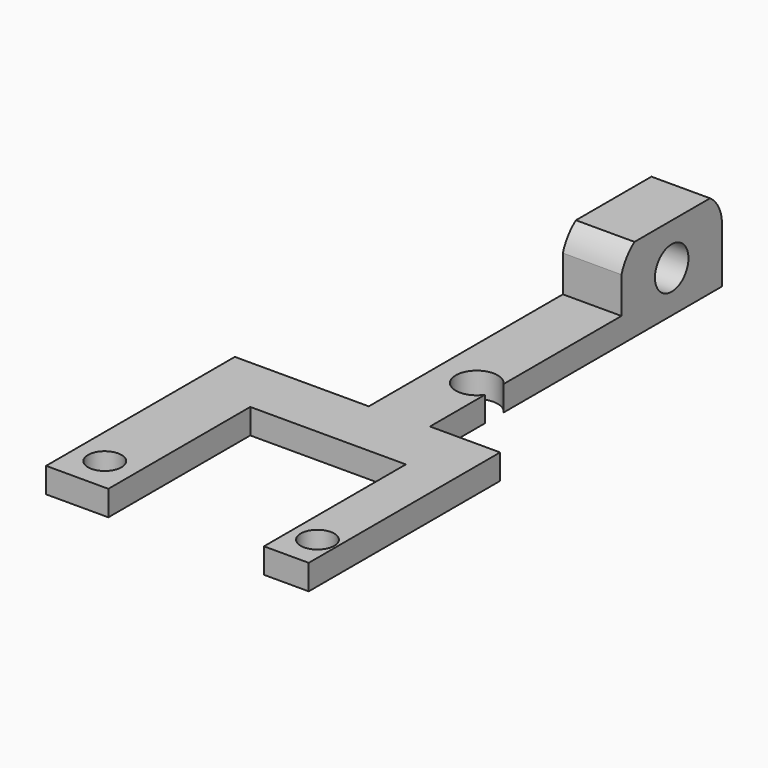
from build123d import *

# Parameters (mm, degrees)
F1_R     = 2
F2_DEPTH = 3
F3_W     = 7
F3_H     = 15
F4_DEPTH = 7
F5_R     = 2.5
F6_DEPTH = 7
F8_DEPTH = 25


with BuildPart() as f2:
    # F1 (on Top) → F2 (new body)
    with BuildSketch(Plane.XY):
        with BuildLine():
            Line((5.260746949, 48.1550168068), (-1.739253051, 48.1550168068))
            Line((-1.739253051, 48.1550168068), (-1.739253051, 4.1768743183))
            Line((-1.739253051, 4.1768743183), (-17.739253051, 4.1768743183))
            Line((-17.739253051, 4.1768743183), (-17.739253051, -24.0102637737))
            Line((-17.739253051, -24.0102637737), (-10.2988117629, -24.0102637737))
            Line((-10.2988117629, -24.0102637737), (-10.2988117629, -2.8231256817))
            Line((-10.2988117629, -2.8231256817), (8.2878154448, -2.8231256817))
            Line((8.2878154448, -2.8231256817), (8.2878154448, -24.0102637737))
            Line((8.2878154448, -24.0102637737), (13.6364829472, -24.0102637737))
            Line((13.6364829472, -24.0102637737), (13.6364829472, 4.5625712545))
            Line((13.6364829472, 4.5625712545), (5.260746949, 4.5625712545))
            Line((5.260746949, 4.5625712545), (5.260746949, 12.7772765343))
            ThreePointArc((5.260746949, 12.7772765343), (0.6746425074, 14.1550168068), (5.260746949, 15.5327570794))
            Line((5.260746949, 15.5327570794), (5.260746949, 48.1550168068))
        make_face()
        with Locations((-14.0605294946, -19.8449831932)):
            Circle(F1_R, mode=Mode.SUBTRACT)
        with Locations((11.3483034751, -19.8449831932)):
            Circle(F1_R, mode=Mode.SUBTRACT)
    extrude(amount=F2_DEPTH)

    # F3 (on face) → F4 (join)
    with BuildSketch(Plane.XY.offset(3)):
        with Locations((1.760746949, 40.6550168068)):
            Rectangle(F3_W, F3_H)
    extrude(amount=F4_DEPTH)

    # F5 (on face) → F6 (cut, through all)
    with BuildSketch(Plane.YZ.offset(5.260746949)):
        with Locations((40.6550168068, 5)):
            Circle(F5_R)
    extrude(amount=-F6_DEPTH, mode=Mode.SUBTRACT)

    # F7 (on face) → F8 (cut)
    with BuildSketch(Plane.YZ.offset(5.260746949)):
        with BuildLine():
            ThreePointArc((33.1550168068, 7.345077116), (33.9168939811, 8.8286237351), (35.1040102541, 10))
            Line((35.1040102541, 10), (33.1550168068, 10))
            Line((33.1550168068, 10), (33.1550168068, 7.345077116))
        make_face()
        with BuildLine():
            Line((48.1550168068, 10), (46.3816933334, 10))
            ThreePointArc((46.3816933334, 10), (47.6252482208, 8.6215486681), (48.1550168068, 6.8422504701))
            Line((48.1550168068, 6.8422504701), (48.1550168068, 10))
        make_face()
    extrude(amount=-F8_DEPTH, mode=Mode.SUBTRACT)


solid = f2.part
